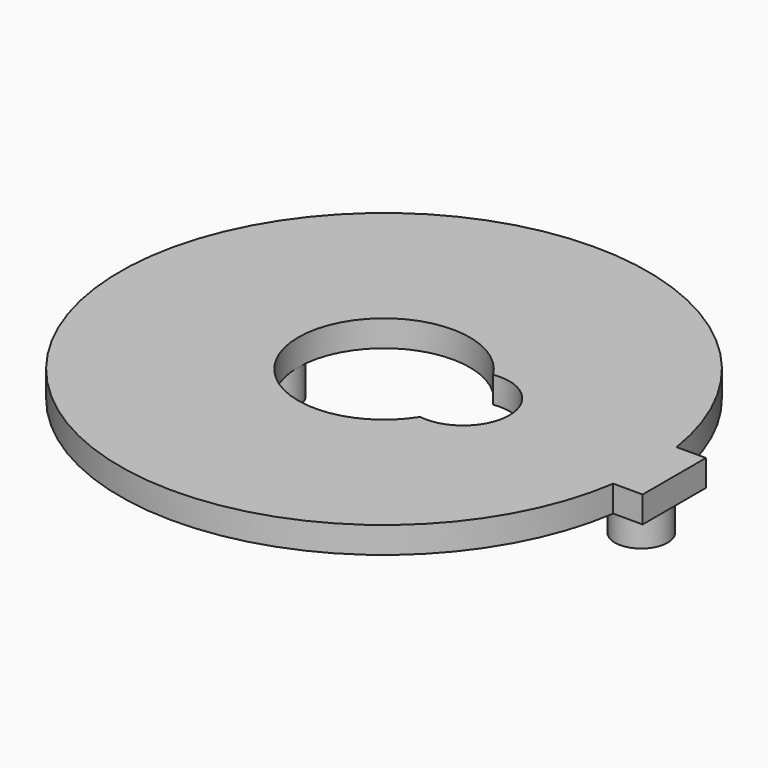
from build123d import *

# Parameters (mm, degrees)
CYLINDER003001001005001001_R     = 3.5
CYLINDER003001001005001001_DEPTH = 2
CYLINDER003001001004002_R        = 1
CYLINDER003001001004002_DEPTH    = 5
CYLINDER003001001004001001_R     = 1
CYLINDER003001001004001001_DEPTH = 5
CYLINDER003001001005001_R        = 6.5
CYLINDER003001001005001_DEPTH    = 2
BOX002_W                         = 10
BOX002_H                         = 6
BOX002_DEPTH                     = 2
CYLINDER003001001004_R           = 2
CYLINDER003001001004_DEPTH       = 3
CYLINDER003001001004001_R        = 2
CYLINDER003001001004001_DEPTH    = 3
CYLINDER003001001005_R           = 20
CYLINDER003001001005_DEPTH       = 2


with BuildPart() as cylinder013:
    # Cylinder003001001005001001 → Cylinder003001001005001001 (new body)
    with BuildSketch(Plane(origin=(12, 6, 21), x_dir=(1, 0, 0), z_dir=(0, 0, 1))):
        Circle(CYLINDER003001001005001001_R)
    extrude(amount=CYLINDER003001001005001001_DEPTH)


with BuildPart() as cylinder014:
    # Cylinder003001001004002 → Cylinder003001001004002 (new body)
    with BuildSketch(Plane(origin=(-2.5, 6, 16.4), x_dir=(1, 0, 0), z_dir=(0, 0, 1))):
        Circle(CYLINDER003001001004002_R)
    extrude(amount=CYLINDER003001001004002_DEPTH)


with BuildPart() as cylinder015:
    # Cylinder003001001004001001 → Cylinder003001001004001001 (new body)
    with BuildSketch(Plane(origin=(25.5, 6, 16.4), x_dir=(1, 0, 0), z_dir=(0, 0, 1))):
        Circle(CYLINDER003001001004001001_R)
    extrude(amount=CYLINDER003001001004001001_DEPTH)


with BuildPart() as fusion009:
    # Cylinder003001001005001 → Cylinder003001001005001 (new body)
    with BuildSketch(Plane(origin=(6, 6, 21), x_dir=(1, 0, 0), z_dir=(0, 0, 1))):
        Circle(CYLINDER003001001005001_R)
    extrude(amount=CYLINDER003001001005001_DEPTH)

    # Fusion009: union Cylinder013, Cylinder014, Cylinder015
    add(cylinder013.part)
    add(cylinder014.part)
    add(cylinder015.part)


with BuildPart() as box002:
    # Box002 → Box002 (new body)
    with BuildSketch(Plane(origin=(18, 3, 21), x_dir=(1, 0, 0), z_dir=(0, 0, 1))):
        with Locations((5, 3)):
            Rectangle(BOX002_W, BOX002_H)
    extrude(amount=BOX002_DEPTH)


with BuildPart() as cylinder009:
    # Cylinder003001001004 → Cylinder003001001004 (new body)
    with BuildSketch(Plane(origin=(-2.5, 6, 18.4), x_dir=(1, 0, 0), z_dir=(0, 0, 1))):
        Circle(CYLINDER003001001004_R)
    extrude(amount=CYLINDER003001001004_DEPTH)


with BuildPart() as cylinder010:
    # Cylinder003001001004001 → Cylinder003001001004001 (new body)
    with BuildSketch(Plane(origin=(25.5, 6, 18.4), x_dir=(1, 0, 0), z_dir=(0, 0, 1))):
        Circle(CYLINDER003001001004001_R)
    extrude(amount=CYLINDER003001001004001_DEPTH)


with BuildPart() as guide1:
    # Cylinder003001001005 → Cylinder003001001005 (new body)
    with BuildSketch(Plane(origin=(6, 6, 21), x_dir=(1, 0, 0), z_dir=(0, 0, 1))):
        Circle(CYLINDER003001001005_R)
    extrude(amount=CYLINDER003001001005_DEPTH)

    # Fusion008: union Box002, Cylinder009, Cylinder010
    add(box002.part)
    add(cylinder009.part)
    add(cylinder010.part)

    # Cut002: cut Fusion009
    add(fusion009.part, mode=Mode.SUBTRACT)


solid = guide1.part
